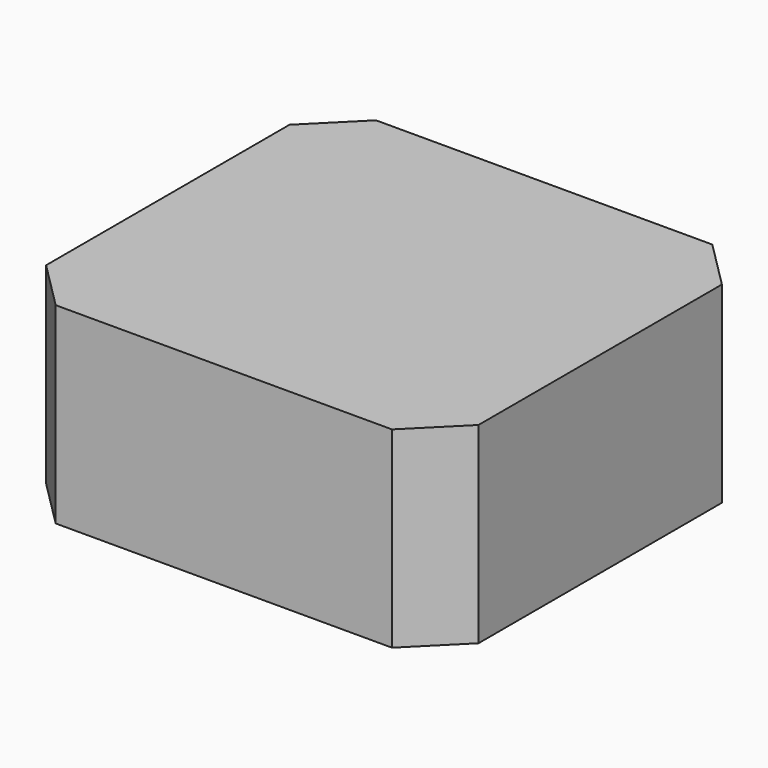
from build123d import *

# Parameters (mm, degrees)
F0_W     = 54
F0_H     = 50
F1_DEPTH = 24
F2_SIZE  = 6


with BuildPart() as f1:
    # F0 (on Top) → F1 (new body)
    with BuildSketch(Plane.XY):
        Rectangle(F0_W, F0_H)
    extrude(amount=F1_DEPTH)

    # F2
    f2_edges = [f1.edges().sort_by_distance(p)[0] for p in [
        (-27, 25, 12),
        (27, 25, 12),
        (27, -25, 12),
        (-27, -25, 12),
    ]]
    chamfer(f2_edges, length=F2_SIZE)


solid = f1.part
